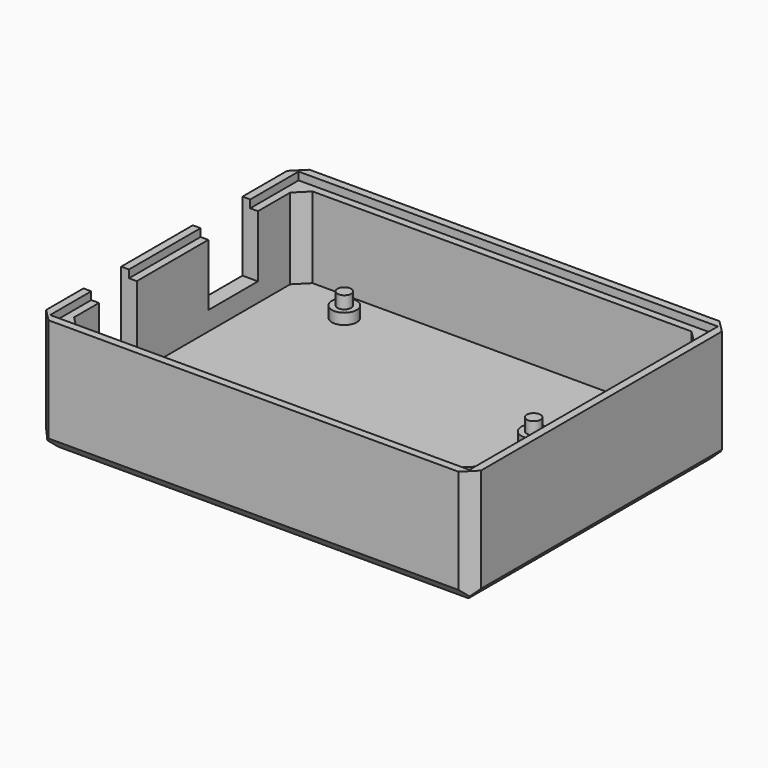
from build123d import *

# Parameters (mm, degrees)
F0_W      = 88.9
F0_H      = 66.675
F1_DEPTH  = 3.175
F2_W      = 88.9
F2_H      = 66.675
F2_W_2    = 82.55
F2_H_2    = 60.325
F3_DEPTH  = 19.05
F4_R      = 2.54
F5_DEPTH  = 4.7625
F6_R      = 1.397
F1_FACE_W = 82.55
F1_FACE_H = 60.325
F1_FACE_R = 2.54
F10_DEPTH = 2.54
F7_R      = 1.397
F11_DEPTH = 2.54
F8_R      = 1.397
F12_DEPTH = 2.54
F9_R      = 1.397
F13_DEPTH = 2.54
F14_W     = 9.652
F14_H     = 12.6365
F15_DEPTH = 3.175
F14_W_2   = 12.7
F16_DEPTH = 3.175
F18_DEPTH = 1.5875
F19_W     = 1.5875000006
F19_H     = 18.288
F20_DEPTH = 1.5875
F21_SIZE  = 2.54
F22_SIZE  = 2.54
F23_SIZE  = 2.54


with BuildPart() as f1:
    # F0 (on Top) → F1 (new body)
    with BuildSketch(Plane.XY):
        with Locations((44.45, 33.3375)):
            Rectangle(F0_W, F0_H)
    extrude(amount=F1_DEPTH)

    # F2 (on face) → F3 (join)
    with BuildSketch(Plane.XY.offset(3.175)):
        with Locations((44.45, 33.3375)):
            Rectangle(F2_W, F2_H)
        with Locations((44.45, 33.3375)):
            Rectangle(F2_W_2, F2_H_2, mode=Mode.SUBTRACT)
    extrude(amount=F3_DEPTH)

    # F4 (on face) → F5 (join)
    with BuildSketch(Plane.XY.offset(3.175)):
        with Locations((17.145, 57.3237927139)):
            Circle(F4_R)
        with Locations((17.145, 9.2075)):
            Circle(F4_R)
        with Locations((67.945, 42.2275)):
            Circle(F4_R)
        with Locations((67.945, 14.2875)):
            Circle(F4_R)
    extrude(amount=F5_DEPTH)

    # F6 (on face) + F1_face (on face) → F10 (join)
    with BuildSketch(Plane.XY.offset(7.9375)):
        with Locations((17.145, 57.3237927139)):
            Circle(F6_R)
    with BuildSketch(Plane(origin=(44.45, 33.3375, 3.175), x_dir=(1, 0, 0), z_dir=(0, 0, 1))):
        Rectangle(F1_FACE_W, F1_FACE_H)
        with Locations((-27.305, -24.13)):
            Circle(F1_FACE_R, mode=Mode.SUBTRACT)
        with Locations((23.495, -19.05)):
            Circle(F1_FACE_R, mode=Mode.SUBTRACT)
        with Locations((-27.305, 23.9862927139)):
            Circle(F1_FACE_R, mode=Mode.SUBTRACT)
        with Locations((23.495, 8.89)):
            Circle(F1_FACE_R, mode=Mode.SUBTRACT)
    extrude(amount=F10_DEPTH)

    # F7 (on face) → F11 (join)
    with BuildSketch(Plane.XY.offset(7.9375)):
        with Locations((67.945, 42.2275)):
            Circle(F7_R)
    extrude(amount=F11_DEPTH)

    # F8 (on face) → F12 (join)
    with BuildSketch(Plane.XY.offset(7.9375)):
        with Locations((17.145, 9.2075)):
            Circle(F8_R)
    extrude(amount=F12_DEPTH)

    # F9 (on face) → F13 (join)
    with BuildSketch(Plane.XY.offset(7.9375)):
        with Locations((67.945, 14.2875)):
            Circle(F9_R)
    extrude(amount=F13_DEPTH)

    # F14 (on face) → F15 (cut, through all)
    with BuildSketch(Plane(origin=(0, 0, 0), x_dir=(0, -1, 0), z_dir=(-1, 0, 0))):
        with Locations((-16.9198646352, 15.90675)):
            Rectangle(F14_W, F14_H)
    extrude(amount=-F15_DEPTH, mode=Mode.SUBTRACT)

    # F14 (on face) → F16 (cut, through all)
    with BuildSketch(Plane(origin=(0, 0, 0), x_dir=(0, -1, 0), z_dir=(-1, 0, 0))):
        with Locations((-46.3838646352, 15.90675)):
            Rectangle(F14_W_2, F14_H)
    extrude(amount=-F16_DEPTH, mode=Mode.SUBTRACT)

    # F17 (on face) → F18 (join)
    with BuildSketch(Plane.XY.offset(22.225)):
        Polygon((87.3125, 1.5875), (1.5875, 1.5875), (1.5875, 12.0938646352), (0, 12.0938646352), (0, 0), (88.9, 0), (88.9, 66.675), (0, 66.675), (0, 52.7338646352), (1.5875, 52.7338646352), (1.5875, 65.0875), (87.3125, 65.0875), align=None)
    extrude(amount=F18_DEPTH)

    # F19 (on face) → F20 (join)
    with BuildSketch(Plane.XY.offset(22.225)):
        with Locations((0.7937500003, 30.8898646352)):
            Rectangle(F19_W, F19_H)
    extrude(amount=F20_DEPTH)

    # F21
    f21_edges = [f1.edges().sort_by_distance(p)[0] for p in [
        (88.9, 0, 11.90625),
        (0, 0, 11.90625),
        (88.9, 66.675, 11.90625),
        (0, 66.675, 11.90625),
    ]]
    chamfer(f21_edges, length=F21_SIZE)

    # F22
    f22_edges = [f1.edges().sort_by_distance(p)[0] for p in [
        (3.175, 63.5, 13.97),
        (85.725, 63.5, 13.97),
        (85.725, 3.175, 13.97),
        (3.175, 3.175, 13.97),
    ]]
    chamfer(f22_edges, length=F22_SIZE)

    # F23 (call 1 of 4: OpenCascade refuses the feature's edges together)
    f23_edges = [f1.edges().sort_by_distance(p)[0] for p in [
        (44.45, 0, 0),
    ]]
    chamfer(f23_edges, length=F23_SIZE)

    # F23#2 (call 2 of 4)
    f23_2_edges = [f1.edges().sort_by_distance(p)[0] for p in [
        (88.9, 33.3375, 0),
    ]]
    chamfer(f23_2_edges, length=F23_SIZE)

    # F23#3 (call 3 of 4)
    f23_3_edges = [f1.edges().sort_by_distance(p)[0] for p in [
        (44.45, 66.675, 0),
    ]]
    chamfer(f23_3_edges, length=F23_SIZE)

    # F23#4 (call 4 of 4)
    f23_4_edges = [f1.edges().sort_by_distance(p)[0] for p in [
        (0, 33.3375, 0),
    ]]
    chamfer(f23_4_edges, length=F23_SIZE)


solid = f1.part
